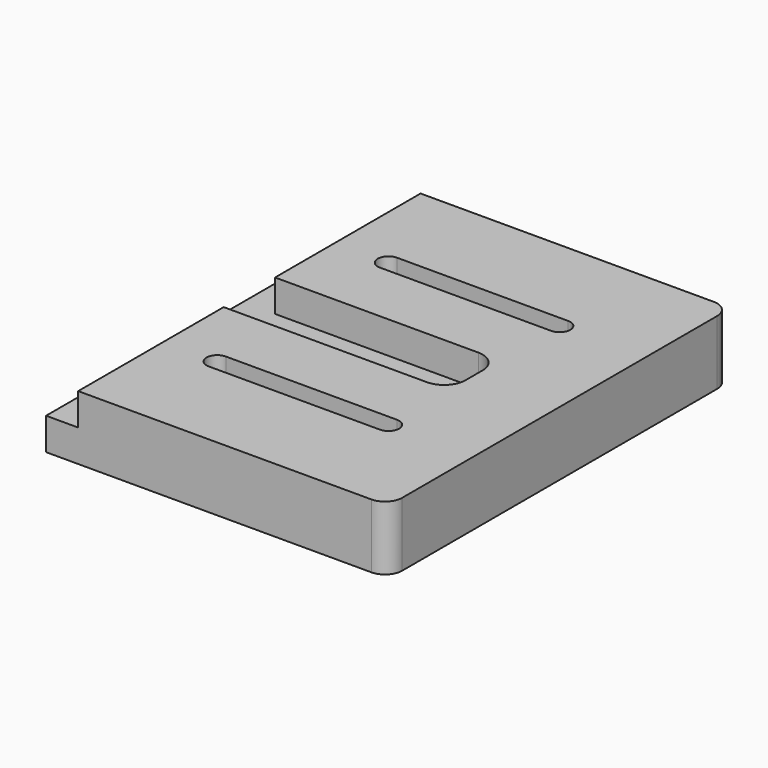
from build123d import *

# Parameters (mm, degrees)
F0_W     = 101.6
F0_H     = 127
F1_DEPTH = 19.05
F2_W     = 76.2
F2_H     = 19.05
F3_DEPTH = 9.525
F4_R     = 6.35
F6_DEPTH = 19.051
F7_R     = 5.08
F8_W     = 25.4
F8_H     = 19.05
F9_DEPTH = 127.001


with BuildPart() as f1:
    # F0 (on Top) → F1 (new body)
    with BuildSketch(Plane.XY):
        with Locations((50.8, 63.5)):
            Rectangle(F0_W, F0_H)
    extrude(amount=F1_DEPTH)

    # F2 (on face) → F3 (cut)
    with BuildSketch(Plane.XY.offset(19.05)):
        with Locations((38.1, 63.5)):
            Rectangle(F2_W, F2_H)
    extrude(amount=-F3_DEPTH, mode=Mode.SUBTRACT)

    # F4
    f4_edges = [f1.edges().sort_by_distance(p)[0] for p in [
        (76.2, 73.025, 14.2875),
        (76.2, 53.975, 14.2875),
    ]]
    fillet(f4_edges, radius=F4_R)

    # F5 (on face) → F6 (cut, through all)
    with BuildSketch(Plane.XY.offset(19.05)):
        with BuildLine():
            ThreePointArc((25.4, 34.925), (22.225, 31.75), (25.4, 28.575))
            Line((25.4, 28.575), (76.2, 28.575))
            ThreePointArc((76.2, 28.575), (79.375, 31.75), (76.2, 34.925))
            Line((76.2, 34.925), (25.4, 34.925))
        make_face()
        with BuildLine():
            ThreePointArc((25.4, 98.425), (22.225, 95.25), (25.4, 92.075))
            Line((25.4, 92.075), (76.2, 92.075))
            ThreePointArc((76.2, 92.075), (79.375, 95.25), (76.2, 98.425))
            Line((76.2, 98.425), (25.4, 98.425))
        make_face()
    extrude(amount=-F6_DEPTH, mode=Mode.SUBTRACT)

    # F7
    f7_edges = [f1.edges().sort_by_distance(p)[0] for p in [
        (101.6, 0, 9.525),
        (101.6, 127, 9.525),
    ]]
    fillet(f7_edges, radius=F7_R)

    # F8 (on face) → F9 (cut, through all)
    with BuildSketch(Plane.XZ):
        with Locations((-3.175, 19.05)):
            Rectangle(F8_W, F8_H)
    extrude(amount=-F9_DEPTH, mode=Mode.SUBTRACT)


solid = f1.part
